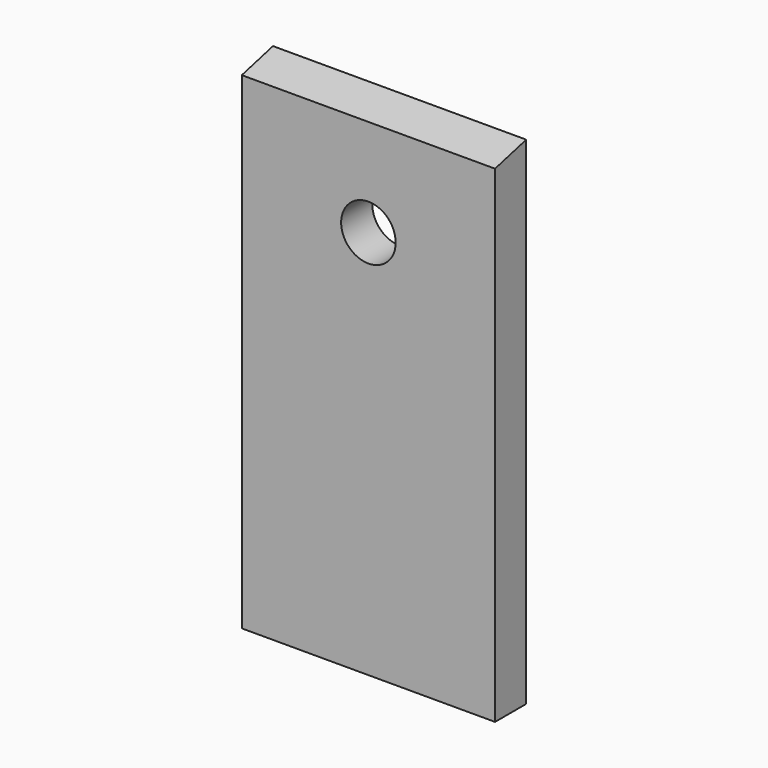
from build123d import *

# Parameters (mm, degrees)
F0_W     = 130
F0_H     = 250
F0_R     = 14
F1_DEPTH = 10
F5_DEPTH = 130


with BuildPart() as f1:
    # F0 (on Front) → F1 (new body, symmetric)
    with BuildSketch(Plane.XZ):
        Rectangle(F0_W, F0_H)
        with Locations((0, 75)):
            Circle(F0_R, mode=Mode.SUBTRACT)
    extrude(amount=F1_DEPTH, both=True)

    # F4 (on face) → F5 (join)
    with BuildSketch(Plane.YZ.offset(65)):
        Polygon((-10, 125), (10, 125), (10, 130), align=None)
    extrude(amount=-F5_DEPTH)


solid = f1.part
